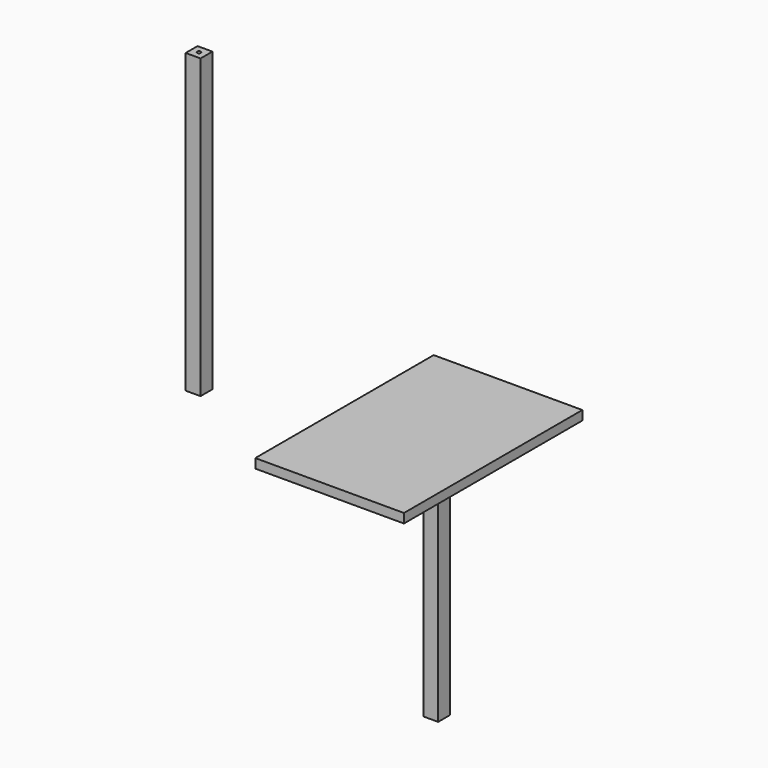
from build123d import *

# Parameters (mm, degrees)
F0_W     = 40
F0_H     = 40
F1_DEPTH = 800
F2_W     = 400
F2_H     = 600
F3_DEPTH = 25
F4_R     = 5
F5_DEPTH = 35
F6_R     = 5
F7_DEPTH = 10
F8_W     = 40
F8_H     = 40
F9_DEPTH = 800


with BuildPart() as f1:
    # F0 (on Top) → F1 (new body)
    with BuildSketch(Plane.XY):
        with Locations((-12.428137, 11.958888)):
            Rectangle(F0_W, F0_H)
    extrude(amount=F1_DEPTH)

    # F6 (on face) → F7 (cut)
    with BuildSketch(Plane.XY.offset(800)):
        with Locations((-12.428137, 11.958888)):
            Circle(F6_R)
    extrude(amount=-F7_DEPTH, mode=Mode.SUBTRACT)


with BuildPart() as f3:
    # F2 (on Top) → F3 (new body)
    with BuildSketch(Plane.XY):
        with Locations((503.277305, 106.457415)):
            Rectangle(F2_W, F2_H)
    extrude(amount=F3_DEPTH)

    # F4 (on face) → F5 (join)
    with BuildSketch(Plane.XY.offset(25)):
        with Locations((323.277305, -173.542585)):
            Circle(F4_R)
        with Locations((683.277305, -173.542585)):
            Circle(F4_R)
        with Locations((323.277305, 386.457415)):
            Circle(F4_R)
        with Locations((683.277305, 386.457415)):
            Circle(F4_R)
    extrude(amount=-F5_DEPTH)

    # F8 (on face) → F9 (join)
    with BuildSketch(Plane(origin=(0, 0, 0), x_dir=(1, 0, 0), z_dir=(0, 0, -1))):
        with Locations((343.277305, -366.457415)):
            Rectangle(F8_W, F8_H)
    extrude(amount=F9_DEPTH)


solid = Compound([f1.part, f3.part])
